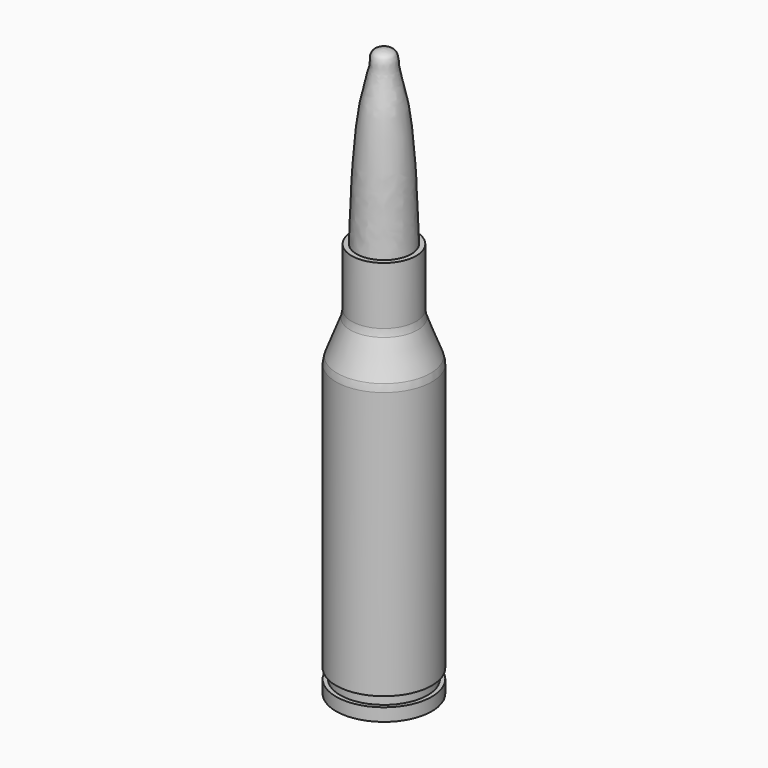
from build123d import *

# Parameters (mm, degrees)
F0_W = 4.3428323324
F0_H = 0.9698241177
F2_R = 2


with BuildPart() as f1:
    # F0 (on Front) → F1 (revolve)
    with BuildSketch(Plane.XZ):
        Polygon((0, 41.463367641), (-2.7215683367, 41.463367641), (-3.2072065232, 41.463367641), (-3.2072065232, 35.3673755124), (-4.7536900101, 31.317062021), (-4.7536900101, 4.4173045305), (-4.3428323324, 4.4173045305), (0, 4.4173045305), align=None)
        with Locations((-2.1714161662, 3.9323924717)):
            Rectangle(F0_W, F0_H)
        Polygon((0, 2.1724704409), (0, 3.4474804128), (-4.3428323324, 3.4474804128), (-4.7536900101, 3.4474804128), (-4.7536900101, 2.1724704409), align=None)
    revolve(axis=Axis((0, 0, 29.95), (0, 0, 1)))

    # F2
    f2_edges = [f1.edges().sort_by_distance(p)[0] for p in [
        (3.207207, 0, 35.367376),
        (4.75369, 0, 31.317062),
    ]]
    fillet(f2_edges, radius=F2_R)

    # F0 (on Front) → F3 (revolve)
    with BuildSketch(Plane.XZ):
        with BuildLine():
            Line((0, 41.463367641), (0, 58.5273988545))
            add(Edge.make_bspline(
                [(0, 58.5273988545), (-0.36253144, 58.486839259), (-1.1596346327, 58.3977811986), (-1.1249576474, 56.6070187801), (-2.3576224657, 52.9317939751), (-2.579834999, 45.9332704529), (-2.7215683367, 41.463367641)],
                knots=[0, 0, 0, 0, 0.1308182588, 0.2872358796, 0.5423006179, 1, 1, 1, 1], degree=3))
            Line((-2.7215683367, 41.463367641), (0, 41.463367641))
        make_face()
    revolve(axis=Axis((0, 0, 29.95), (0, 0, 1)))


solid = f1.part
